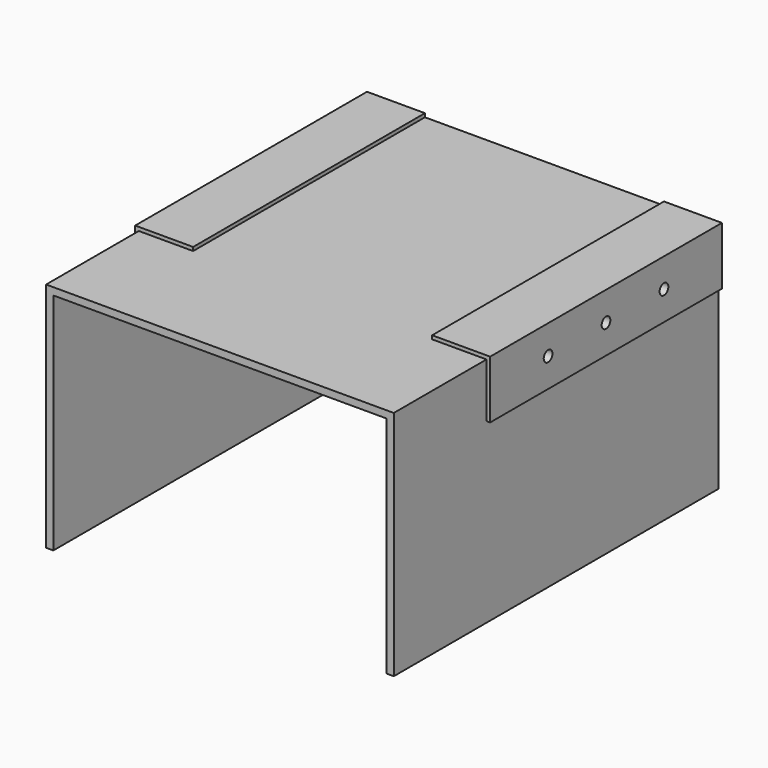
from build123d import *

# Parameters (mm, degrees)
F1_DEPTH  = 203.2
F2_T      = -6.35
F4_DEPTH  = 3.175
F5_W      = 292.1
F5_H      = 196.85
F6_DEPTH  = 640.08
F7_W      = 3.175
F7_H      = 254
F8_DEPTH  = 47.625
F10_W     = 3.175
F10_H     = 254
F11_DEPTH = 47.625
F12_DEPTH = 311.151


with BuildPart() as f1:
    # F0 (on Top) → F1 (new body)
    with BuildSketch(Plane.XY):
        Polygon((-168.573773, 0), (0, 0), (136.226227, 0), (136.226227, 355.6), (-168.573773, 355.6), align=None)
    extrude(amount=F1_DEPTH)

    # F2
    f2_openings = [f1.faces().sort_by_distance(p)[0] for p in [
        (-16.173773, 177.8, 0),
    ]]
    offset(amount=F2_T, openings=f2_openings)

    # F3 (on face) → F4 (join)
    with BuildSketch(Plane.XY.offset(203.2)):
        Polygon((-171.748773, 101.6), (-168.573773, 101.6), (-120.948773, 101.6), (-120.948773, 355.6), (-168.573773, 355.6), (-171.748773, 355.6), align=None)
        Polygon((139.401227, 355.6), (136.226227, 355.6), (88.601227, 355.6), (88.601227, 101.6), (136.226227, 101.6), (139.401227, 101.6), align=None)
    extrude(amount=F4_DEPTH)

    # F5 (on face) → F6 (cut)
    with BuildSketch(Plane.XZ):
        with Locations((-16.173773, 98.425)):
            Rectangle(F5_W, F5_H)
    extrude(amount=-F6_DEPTH, mode=Mode.SUBTRACT)

    # F7 (on face) → F8 (join)
    with BuildSketch(Plane(origin=(0, 0, 203.2), x_dir=(1, 0, 0), z_dir=(0, 0, -1))):
        with Locations((-170.161273, -228.6)):
            Rectangle(F7_W, F7_H)
    extrude(amount=F8_DEPTH)

    # F10 (on face) → F11 (join)
    with BuildSketch(Plane(origin=(0, 0, 203.2), x_dir=(1, 0, 0), z_dir=(0, 0, -1))):
        with Locations((137.813727, -228.6)):
            Rectangle(F10_W, F10_H)
    extrude(amount=F11_DEPTH)

    # F9 (on face) → F12 (cut, through all)
    with BuildSketch(Plane(origin=(-171.748773, 0, 0), x_dir=(0, -1, 0), z_dir=(-1, 0, 0))):
        with BuildLine():
            ThreePointArc((-287.3375, 180.975), (-292.1, 185.7375), (-296.8625, 180.975))
            Line((-296.8625, 180.975), (-287.3375, 180.975))
        make_face()
        with BuildLine():
            ThreePointArc((-160.3375, 180.975), (-165.1, 185.7375), (-169.8625, 180.975))
            Line((-169.8625, 180.975), (-160.3375, 180.975))
        make_face()
        with BuildLine():
            Line((-160.3375, 180.975), (-169.8625, 180.975))
            ThreePointArc((-169.8625, 180.975), (-165.1, 176.2125), (-160.3375, 180.975))
        make_face()
        with BuildLine():
            ThreePointArc((-223.8375, 180.975), (-228.6, 185.7375), (-233.3625, 180.975))
            Line((-233.3625, 180.975), (-223.8375, 180.975))
        make_face()
        with BuildLine():
            Line((-223.8375, 180.975), (-233.3625, 180.975))
            ThreePointArc((-233.3625, 180.975), (-228.6, 176.2125), (-223.8375, 180.975))
        make_face()
        with BuildLine():
            Line((-287.3375, 180.975), (-296.8625, 180.975))
            ThreePointArc((-296.8625, 180.975), (-292.1, 176.2125), (-287.3375, 180.975))
        make_face()
    extrude(amount=-F12_DEPTH, mode=Mode.SUBTRACT)


solid = f1.part
